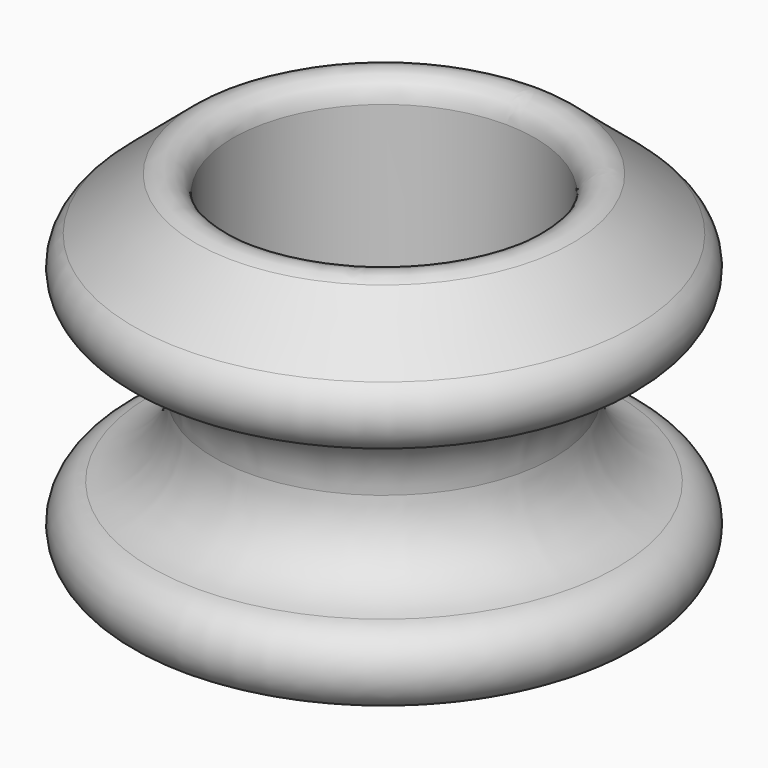
from build123d import *

# Parameters (mm, degrees)
F2_R = 3


with BuildPart() as f1:
    # F0 (on Front) → F1 (revolve)
    with BuildSketch(Plane.XZ):
        with BuildLine():
            Line((-20, 20), (-30, 20))
            ThreePointArc((-30, 20), (-31.718619, 19.695354), (-33.22781, 18.81854))
            ThreePointArc((-33.22781, 18.81854), (-34.831668, 13.713537), (-30.901639, 10.081967))
            ThreePointArc((-30.901639, 10.081967), (-24.875732, 6.56189), (-22.5, 0))
            ThreePointArc((-22.5, 0), (-24.875732, -6.56189), (-30.901639, -10.081967))
            ThreePointArc((-30.901639, -10.081967), (-34.979466, -15.452679), (-30, -20))
            Line((-30, -20), (-20, -20))
            Line((-20, -20), (-20, 0))
            Line((-20, 0), (-20, 20))
        make_face()
        with BuildLine():
            ThreePointArc((-33.22781, 18.81854), (-31.718619, 19.695354), (-30, 20))
            Line((-30, 20), (-20, 20))
            Line((-20, 20), (-20, 30))
            Line((-20, 30), (-33.22781, 18.81854))
        make_face()
    revolve(axis=Axis((0, 0, -1.177467), (0, 0, -1)))

    # F2
    f2_edges = [f1.edges().sort_by_distance(p)[0] for p in [
        (20, 0, -20),
        (20, 0, 30),
    ]]
    fillet(f2_edges, radius=F2_R)


solid = f1.part
